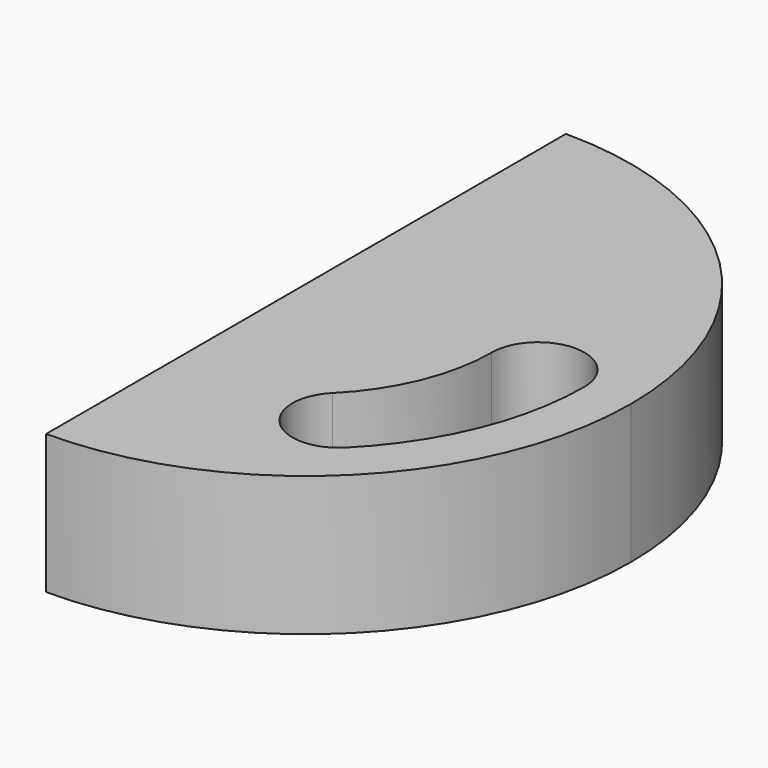
from build123d import *

# Parameters (mm, degrees)
F1_DEPTH = 19.05


with BuildPart() as f1:
    # F0 (on Top) → F1 (new body)
    with BuildSketch(Plane.XY):
        with BuildLine():
            Line((38.1, 0), (44.45, 0))
            ThreePointArc((44.45, 0), (31.4308964237, 31.4308964237), (0, 44.45))
            Line((0, 44.45), (0, 38.1))
            Line((0, 38.1), (0, 25.4))
            Line((0, 25.4), (0, 0))
            Line((0, 0), (25.4, 0))
            ThreePointArc((25.4, 0), (31.75, 6.35), (38.1, 0))
        make_face()
        with BuildLine():
            ThreePointArc((0, -44.45), (31.4308964237, -31.4308964237), (44.45, 0))
            Line((44.45, 0), (38.1, 0))
            ThreePointArc((38.1, 0), (35.1998101887, -14.5802387731), (26.9407683632, -26.9407683632))
            ThreePointArc((26.9407683632, -26.9407683632), (17.9605122421, -26.9407683632), (17.9605122421, -17.9605122421))
            ThreePointArc((17.9605122421, -17.9605122421), (23.4665401258, -9.7201591821), (25.4, 0))
            Line((25.4, 0), (0, 0))
            Line((0, 0), (0, -25.4))
            Line((0, -25.4), (0, -38.1))
            Line((0, -38.1), (0, -44.45))
        make_face()
    extrude(amount=F1_DEPTH)


solid = f1.part
